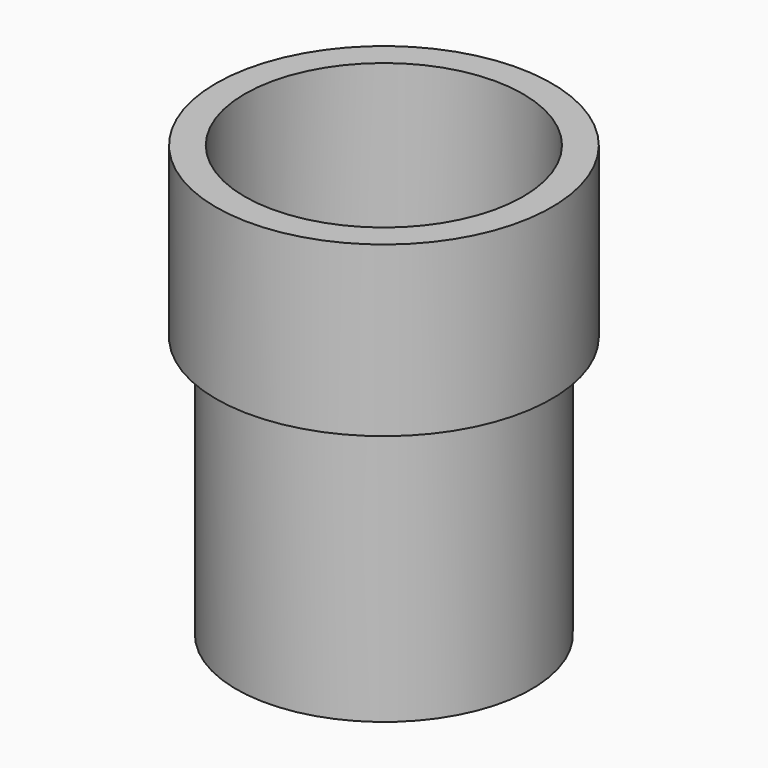
from build123d import *


with BuildPart() as f1:
    # F0 (on Front) → F1 (revolve)
    with BuildSketch(Plane.XZ):
        Polygon((-32.525804, 0), (0, 0), (0, 3.826565), (-26.959892, 3.826565), (-26.959892, 32.699738), (-32.525804, 32.699738), align=None)
    revolve(axis=Axis((0, 0, 1.913283), (0, 0, -1)))

    # F2 (on Front) → F3 (revolve)
    with BuildSketch(Plane.XZ):
        Polygon((-22.25842, 0), (-28.60842, 0), (-28.60842, -50.8), (0, -50.8), (0, -44.45), (-22.25842, -44.45), align=None)
    revolve(axis=Axis((0, 0, -47.625), (0, 0, 1)))


solid = f1.part
